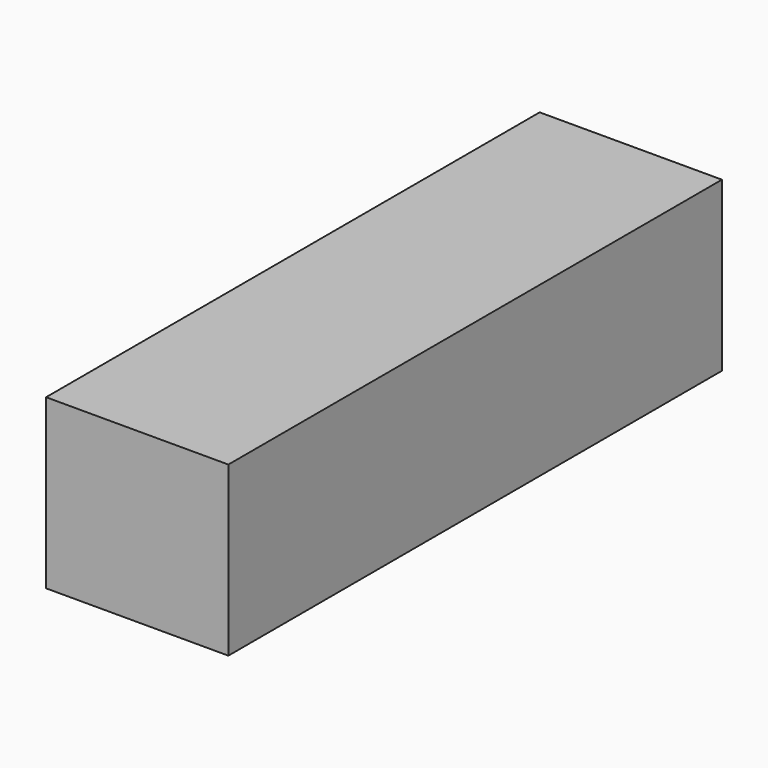
from build123d import *

# Parameters (mm, degrees)
SKETCH_AS_DRAWN_W                 = 65
SKETCH_AS_DRAWN_H                 = 60
EXTRUDE001_DEPTH                  = 220
EXTRUDE001_ONTO_SKETCH_ROLL_ANGLE = 90


with BuildPart() as part:
    # Sketch as drawn → Extrude001 (new)
    with BuildSketch(Plane.XY):
        Rectangle(SKETCH_AS_DRAWN_W, SKETCH_AS_DRAWN_H)
    extrude(amount=-EXTRUDE001_DEPTH)


with BuildPart() as part_1:
    # Extrude001 onto Sketch roll: moved
    add(part.part.rotate(Axis((0, 0, 0), (1, 0, 0)), EXTRUDE001_ONTO_SKETCH_ROLL_ANGLE))


with BuildPart() as part_2:
    # Extrude001 onto Sketch placement: moved
    add(part_1.part)


solid = part_2.part
